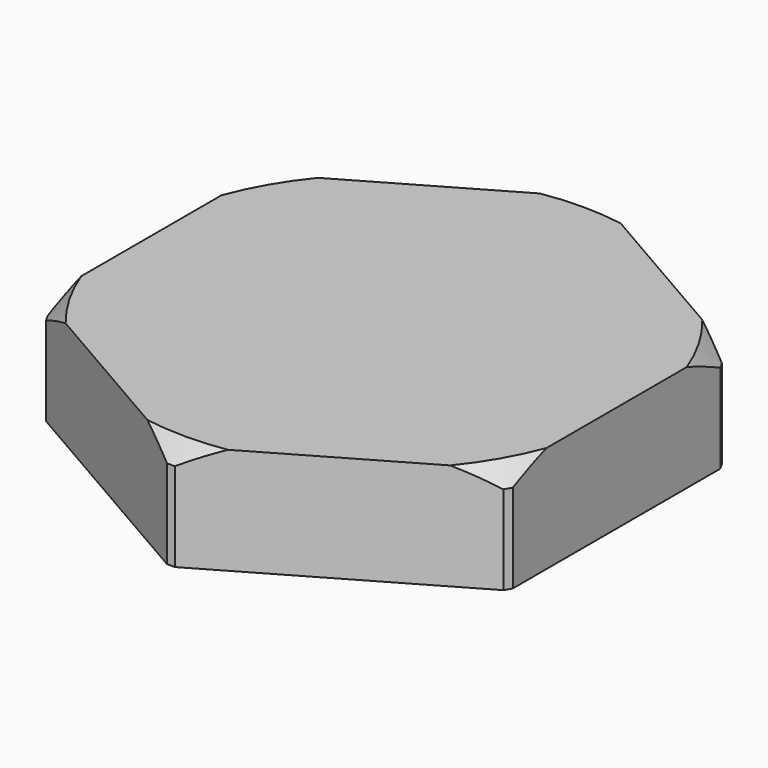
from build123d import *

# Parameters (mm, degrees)
SKETCH003_R      = 7.5
PAD003_DEPTH     = 3
CHAMFER_SIZE     = 0.5
EXTRUDE001_DEPTH = 3


with BuildPart() as chamfer_body:
    # Sketch003 → Pad003 (new body)
    with BuildSketch(Plane.XY):
        Circle(SKETCH003_R)
    extrude(amount=PAD003_DEPTH)

    # Chamfer
    chamfer_edges = [chamfer_body.edges().sort_by_distance(p)[0] for p in [
        (-7.5, 0, 3),
    ]]
    chamfer(chamfer_edges, length=CHAMFER_SIZE)


with BuildPart() as common:
    # Sketch005 (on Face3 of Pad003) → Extrude001 (new body)
    with BuildSketch(Plane.XY.offset(3)):
        Polygon((6.55, -3.781644), (6.55, 3.781644), (0, 7.563289), (-6.55, 3.781644), (-6.55, -3.781644), (0, -7.563289), align=None)
    extrude(amount=-EXTRUDE001_DEPTH)

    # Common: intersect Chamfer body
    add(chamfer_body.part, mode=Mode.INTERSECT)


solid = common.part
